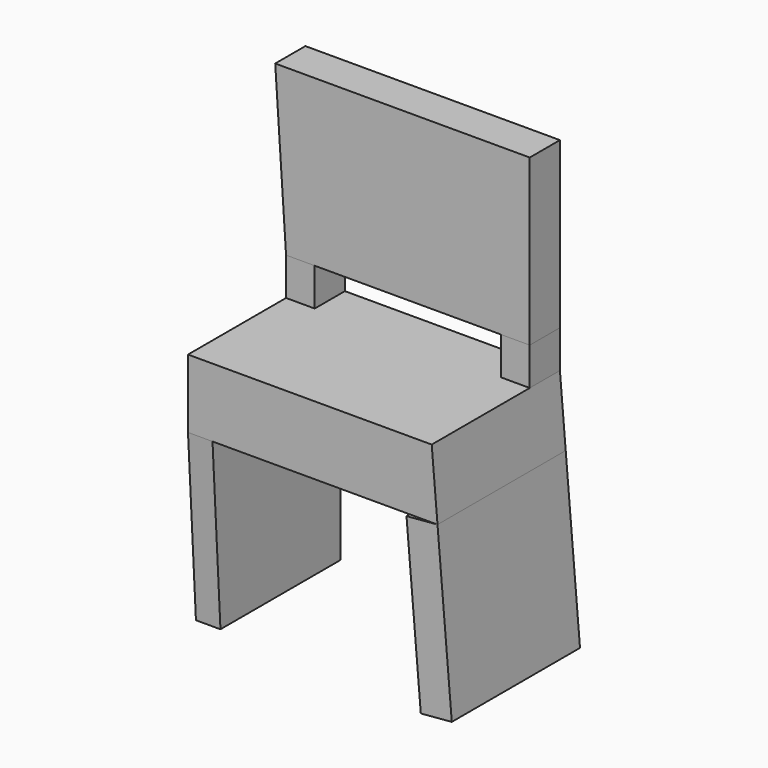
from build123d import *

# Parameters (mm, degrees)
F1_DEPTH = 431.8
F0_W     = 77.280167
F0_H     = 101.6
F0_W_2   = 76.92717
F2_DEPTH = 101.6
F3_DEPTH = 101.6
F5_DEPTH = 66.04
F6_W     = 431.8
F6_H     = 457.2
F7_DEPTH = 83.82


with BuildPart() as f1:
    # F0 (on Front) → F1 (new body)
    with BuildSketch(Plane.XZ):
        Polygon((-294.320971, 526.129933), (-371.601138, 526.129933), (-371.601138, 341.450363), (300.625473, 341.450363), (285.015881, 526.129933), (208.088711, 526.129933), align=None)
    extrude(amount=F1_DEPTH)

    # F4 (on face) → F5 (join)
    with BuildSketch(Plane(origin=(-371.601138, 0, 0), x_dir=(0, -1, 0), z_dir=(-1, 0, 0))):
        Polygon((431.8, 341.450363), (0, 341.450363), (0, -114.967306), (405.065168, -114.967306), align=None)
    extrude(amount=-F5_DEPTH)


with BuildPart() as f2:
    # F0 (on Front) → F2 (new body)
    with BuildSketch(Plane.XZ):
        with Locations((-332.961054, 576.929933)):
            Rectangle(F0_W, F0_H)
        with Locations((246.552296, 576.929933)):
            Rectangle(F0_W_2, F0_H)
    extrude(amount=F2_DEPTH)


with BuildPart() as f3:
    # F0 (on Front) → F3 (new body)
    with BuildSketch(Plane.XZ):
        Polygon((-400.784119, 1072.770325), (-371.601138, 627.729933), (-294.320971, 627.729933), (208.088711, 627.729933), (285.015881, 627.729933), (285.015881, 1072.770325), align=None)
    extrude(amount=F3_DEPTH)


with BuildPart() as f7:
    # F6 (on face) → F7 (new body)
    with BuildSketch(Plane(origin=(327.148566, 0, 27.651439), x_dir=(0, 1, 0), z_dir=(0.996447, 0, 0.084222))):
        with Locations((-215.9, 86.31783)):
            Rectangle(F6_W, F6_H)
    extrude(amount=-F7_DEPTH)


solid = Compound([f1.part, f2.part, f3.part, f7.part])
